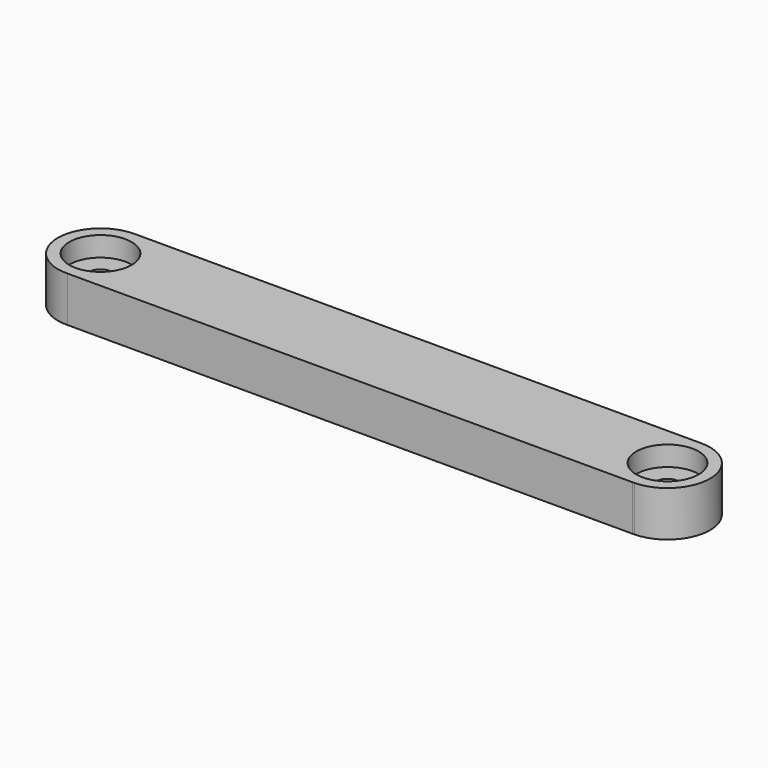
from build123d import *

# Parameters (mm, degrees)
F0_R     = 4
F1_DEPTH = 16
F2_R     = 11
F3_DEPTH = 7


with BuildPart() as f1:
    # F0 (on Top) → F1 (new body)
    with BuildSketch(Plane.XY):
        with BuildLine():
            ThreePointArc((0.3589731907, -14.9957039931), (10.7327675336, -10.4789169798), (15, 0))
            ThreePointArc((15, 0), (10.6066017178, 10.6066017178), (0, 15))
            ThreePointArc((0, 15), (-14.9989259598, -0.179499448), (0.3589731907, -14.9957039931))
        make_face()
        Circle(F0_R, mode=Mode.SUBTRACT)
        with BuildLine():
            Line((185, 0), (15, 0))
            ThreePointArc((15, 0), (10.7327675336, -10.4789169798), (0.3589731907, -14.9957039931))
            Line((0.3589731907, -14.9957039931), (199.6410268093, -14.9957039931))
            ThreePointArc((199.6410268093, -14.9957039931), (189.2672324664, -10.4789169798), (185, 0))
        make_face()
        with BuildLine():
            ThreePointArc((0, 15), (10.6066017178, 10.6066017178), (15, 0))
            Line((15, 0), (185, 0))
            ThreePointArc((185, 0), (189.3933982822, 10.6066017178), (200, 15))
            Line((200, 15), (0, 15))
        make_face()
        with BuildLine():
            ThreePointArc((200, 15), (189.3933982822, 10.6066017178), (185, 0))
            ThreePointArc((185, 0), (189.2672324664, -10.4789169798), (199.6410268093, -14.9957039931))
            Line((199.6410268093, -14.9957039931), (200.3589731907, -14.9957039931))
            ThreePointArc((200.3589731907, -14.9957039931), (210.7327675336, -10.4789169798), (215, 0))
            ThreePointArc((215, 0), (210.6066017178, 10.6066017178), (200, 15))
        make_face()
        with BuildLine():
            ThreePointArc((204, 0), (200, -4), (196, 0))
            ThreePointArc((196, 0), (200, 4), (204, 0))
        make_face(mode=Mode.SUBTRACT)
        with BuildLine():
            Line((200.3589731907, -14.9957039931), (199.6410268093, -14.9957039931))
            ThreePointArc((199.6410268093, -14.9957039931), (200, -15), (200.3589731907, -14.9957039931))
        make_face()
    extrude(amount=F1_DEPTH)

    # F2 (on face) → F3 (cut)
    with BuildSketch(Plane.XY.offset(16)):
        Circle(F2_R)
        with Locations((200, 0)):
            Circle(F2_R)
    extrude(amount=-F3_DEPTH, mode=Mode.SUBTRACT)


solid = f1.part
